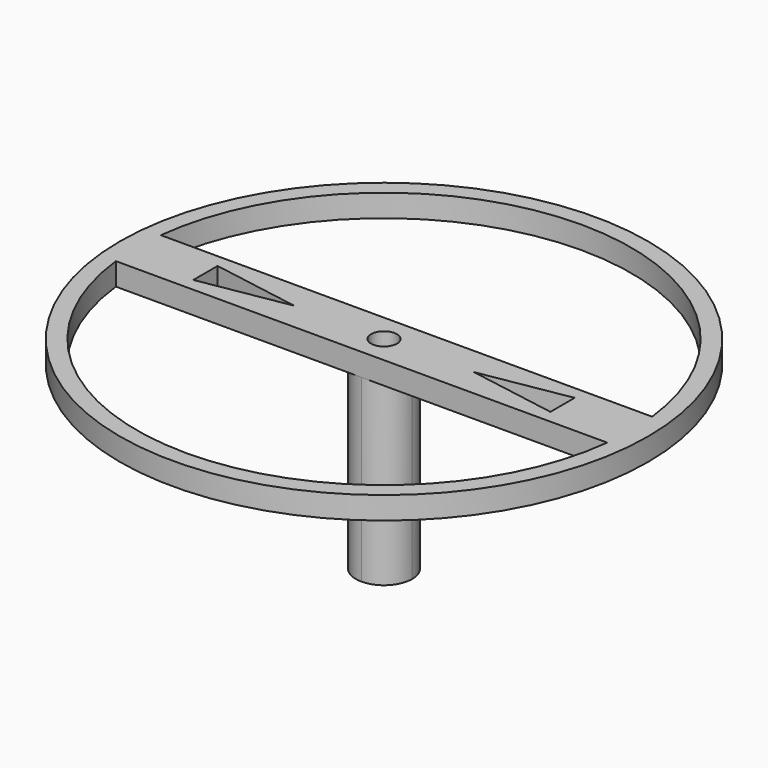
from build123d import *

# Parameters (mm, degrees)
F0_R     = 1.15
F1_DEPTH = 16
F0_R_2   = 23.5
F2_DEPTH = 2


with BuildPart() as f1:
    # F0 (on Top) → F1 (new body)
    with BuildSketch(Plane.XY):
        with BuildLine():
            ThreePointArc((2.5, 0), (1.7677669545, 1.7677669515), (4.3e-09, 2.5))
            ThreePointArc((4.3e-09, 2.5), (-2.5, -9e-10), (6.1e-09, -2.5))
            ThreePointArc((6.1e-09, -2.5), (1.7677669551, -1.7677669508), (2.5, 0))
        make_face()
        Circle(F0_R, mode=Mode.SUBTRACT)
    extrude(amount=-F1_DEPTH)

    # F0 (on Top) → F2 (join)
    with BuildSketch(Plane.XY):
        Circle(F0_R_2)
        with BuildLine():
            ThreePointArc((21.8574929944, 2.5), (21.9643443548, 1.2520291776), (22, 0))
            ThreePointArc((22, 0), (21.9643443548, -1.2520291776), (21.8574929944, -2.5))
            ThreePointArc((21.8574929944, -2.5), (0, -22), (-21.8574929944, -2.5))
            ThreePointArc((-21.8574929944, -2.5), (-22, 0), (-21.8574929944, 2.5))
            ThreePointArc((-21.8574929944, 2.5), (0, 22), (21.8574929944, 2.5))
        make_face(mode=Mode.SUBTRACT)
        with BuildLine():
            ThreePointArc((21.8574929944, -2.5), (21.9643443548, -1.2520291776), (22, 0))
            ThreePointArc((22, 0), (21.9643443548, 1.2520291776), (21.8574929944, 2.5))
            Line((21.8574929944, 2.5), (4.3e-09, 2.5))
            ThreePointArc((4.3e-09, 2.5), (1.7677669545, 1.7677669515), (2.5, 0))
            ThreePointArc((2.5, 0), (1.7677669551, -1.7677669508), (6.1e-09, -2.5))
            Line((6.1e-09, -2.5), (21.8574929944, -2.5))
        make_face()
        Polygon((15.8852710797, 1.35), (15.8852710797, -1.35), (8, 0), align=None, mode=Mode.SUBTRACT)
        with BuildLine():
            Line((4.3e-09, 2.5), (-21.8574929944, 2.5))
            ThreePointArc((-21.8574929944, 2.5), (-22, 0), (-21.8574929944, -2.5))
            Line((-21.8574929944, -2.5), (6.1e-09, -2.5))
            ThreePointArc((6.1e-09, -2.5), (-2.5, -9e-10), (4.3e-09, 2.5))
        make_face()
        Polygon((-15.8852710797, -1.35), (-15.8852710797, 1.35), (-8, 0), align=None, mode=Mode.SUBTRACT)
        with BuildLine():
            ThreePointArc((2.5, 0), (1.7677669545, 1.7677669515), (4.3e-09, 2.5))
            ThreePointArc((4.3e-09, 2.5), (-2.5, -9e-10), (6.1e-09, -2.5))
            ThreePointArc((6.1e-09, -2.5), (1.7677669551, -1.7677669508), (2.5, 0))
        make_face()
        Circle(F0_R, mode=Mode.SUBTRACT)
    extrude(amount=F2_DEPTH)


solid = f1.part
